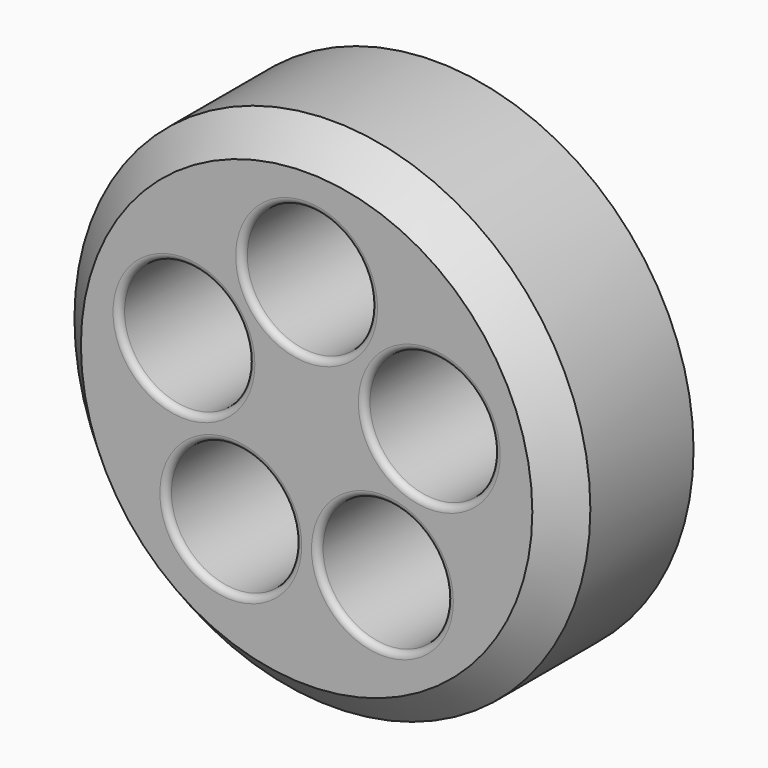
from build123d import *

# Parameters (mm, degrees)
F0_R     = 40
F0_R_2   = 10
F1_DEPTH = 25
F2_R     = 1
F3_SIZE  = 5
F4_T     = -2.5


with BuildPart() as f1:
    # F0 (on Front) → F1 (new body)
    with BuildSketch(Plane.XZ):
        Circle(F0_R)
        with Locations((-11.755705, -16.18034)):
            Circle(F0_R_2, mode=Mode.SUBTRACT)
        with Locations((11.755705, -16.18034)):
            Circle(F0_R_2, mode=Mode.SUBTRACT)
        with Locations((-19.02113, 6.18034)):
            Circle(F0_R_2, mode=Mode.SUBTRACT)
        with Locations((19.02113, 6.18034)):
            Circle(F0_R_2, mode=Mode.SUBTRACT)
        with Locations((0, 20)):
            Circle(F0_R_2, mode=Mode.SUBTRACT)
    extrude(amount=F1_DEPTH)

    # F2
    f2_edges = [f1.edges().sort_by_distance(p)[0] for p in [
        (-10, -25, 20),
        (-29.02113, -25, 6.18034),
        (-21.755705, -25, -16.18034),
        (1.755705, -25, -16.18034),
        (9.02113, -25, 6.18034),
    ]]
    fillet(f2_edges, radius=F2_R)

    # F3
    f3_edges = [f1.edges().sort_by_distance(p)[0] for p in [
        (-40, -25, 0),
    ]]
    chamfer(f3_edges, length=F3_SIZE)

    # F4
    f4_openings = [f1.faces().sort_by_distance(p)[0] for p in [
        (0, 0, 0),
    ]]
    offset(amount=F4_T, openings=f4_openings)


solid = f1.part
